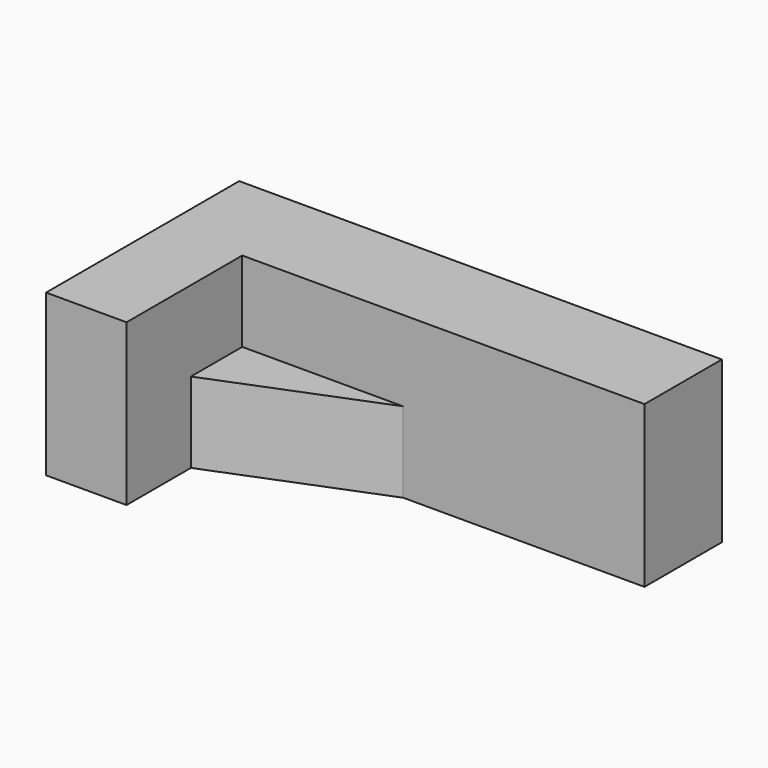
from build123d import *

# Parameters (mm, degrees)
F1_DEPTH = 25.4
F2_DEPTH = 50.8


with BuildPart() as f1:
    # F0 (on Top) → F1 (new body)
    with BuildSketch(Plane.XY):
        Polygon((-40.113418, 0), (10.686582, 20.255104), (-40.113418, 20.255104), align=None)
    extrude(amount=F1_DEPTH)


with BuildPart() as f2:
    # F0 (on Top) → F2 (new body)
    with BuildSketch(Plane.XY):
        Polygon((86.886582, 50.8), (-65.513418, 50.8), (-65.513418, -25.4), (-40.113418, -25.4), (-40.113418, 0), (-40.113418, 20.255104), (10.686582, 20.255104), (86.886582, 20.255104), align=None)
    extrude(amount=F2_DEPTH)


solid = Compound([f1.part, f2.part])
